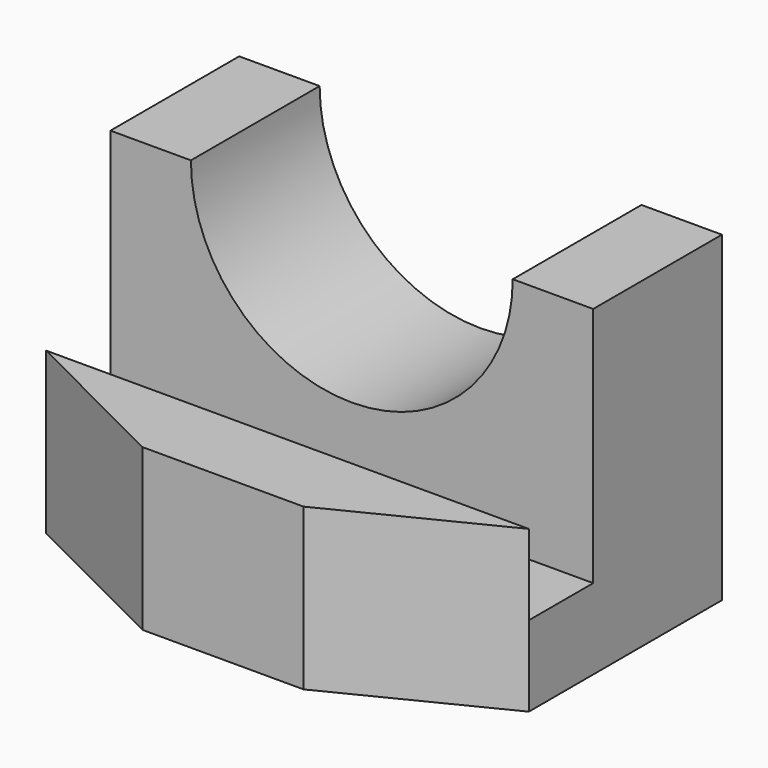
from build123d import *

# Parameters (mm, degrees)
F1_DEPTH = 40
F2_W     = 10
F2_H     = 30
F3_DEPTH = 60.001
F4_W     = 60
F4_H     = 20
F5_DEPTH = 10
F7_DEPTH = 20.001


with BuildPart() as f1:
    # F0 (on Top) → F1 (new body)
    with BuildSketch(Plane.XY):
        Polygon((0, 10), (20, 0), (40, 0), (60, 10), (60, 40), (0, 40), align=None)
    extrude(amount=F1_DEPTH)

    # F2 (on face) → F3 (cut, through all)
    with BuildSketch(Plane.YZ.offset(60)):
        with Locations((15, 25)):
            Rectangle(F2_W, F2_H)
    extrude(amount=-F3_DEPTH, mode=Mode.SUBTRACT)

    # F4 (on face) → F5 (cut)
    with BuildSketch(Plane.XZ):
        with Locations((30, 30)):
            Rectangle(F4_W, F4_H)
    extrude(amount=-F5_DEPTH, mode=Mode.SUBTRACT)

    # F6 (on face) → F7 (cut, through all)
    with BuildSketch(Plane.XZ.offset(-20)):
        with BuildLine():
            Line((50, 40), (10, 40))
            ThreePointArc((10, 40), (30, 20), (50, 40))
        make_face()
    extrude(amount=-F7_DEPTH, mode=Mode.SUBTRACT)


solid = f1.part
